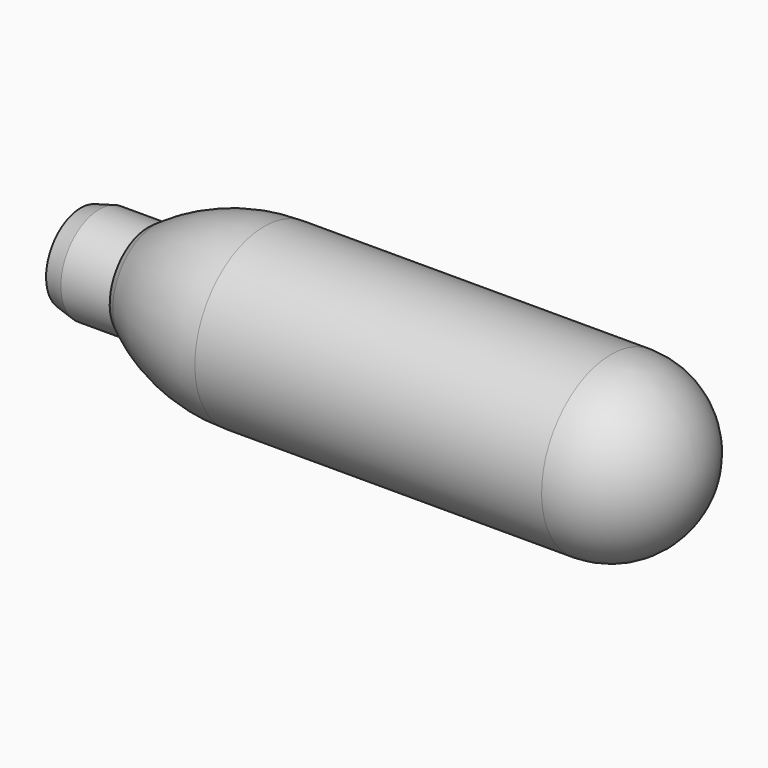
from build123d import *

# Parameters (mm, degrees)
F2_R = 9


with BuildPart() as f1:
    # F0 (on Front) → F1 (revolve)
    with BuildSketch(Plane.XZ):
        with BuildLine():
            Line((-64, 0), (0, 0))
            Line((0, 0), (0, 9))
            Line((0, 9), (-44.969352, 9))
            ThreePointArc((-44.969352, 9), (-50.897358, 8.101276), (-56.292601, 5.485874))
            Line((-56.292601, 5.485874), (-57, 5))
            Line((-57, 5), (-62.063508, 5))
            Line((-62.063508, 5), (-64, 4.5))
            Line((-64, 4.5), (-64, 0))
        make_face()
    revolve(axis=Axis((-32, 0, 0), (-1, 0, 0)))

    # F2
    f2_edges = [f1.edges().sort_by_distance(p)[0] for p in [
        (0, 0, -9),
        (-44.969352, 0, -9),
        (-22.484676, 0, 9),
    ]]
    fillet(f2_edges, radius=F2_R)


solid = f1.part
